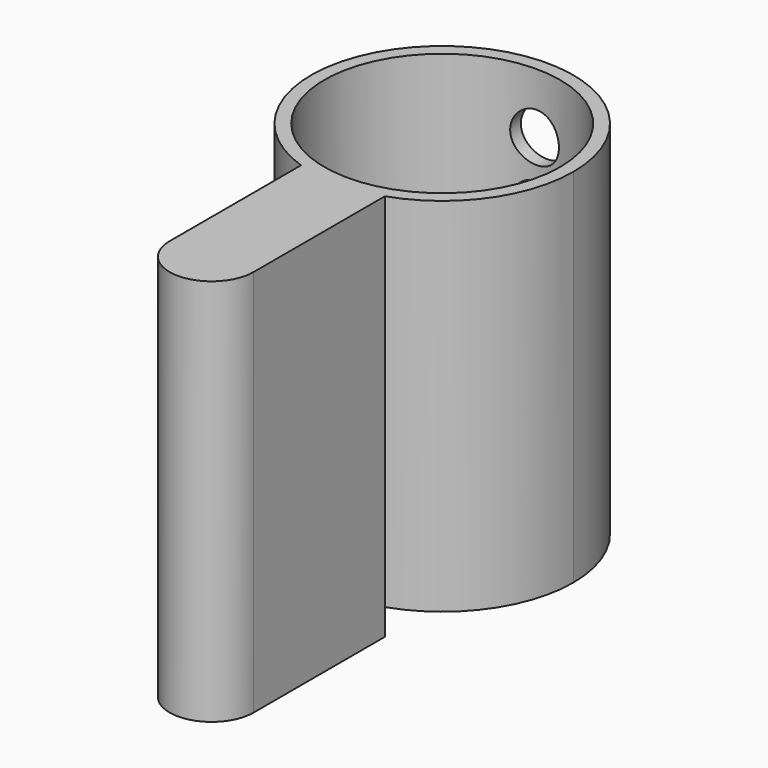
from build123d import *

# Parameters (mm, degrees)
F1_DEPTH = 17.526
F2_DEPTH = 1.27
F3_R     = 5.715
F4_DEPTH = 17.526
F6_R     = 1.1811
F7_DEPTH = 20.828


with BuildPart() as f1:
    # F0 (on Top) → F1 (new body)
    with BuildSketch(Plane.XY):
        with BuildLine():
            ThreePointArc((2.032, -6.016101), (5.158764, -3.702654), (6.35, 0))
            ThreePointArc((6.35, 0), (-3.702654, 5.158764), (-2.032, -6.016101))
            ThreePointArc((-2.032, -6.016101), (0, -6.35), (2.032, -6.016101))
        make_face()
        with BuildLine():
            ThreePointArc((2.032, -6.016101), (0, -6.35), (-2.032, -6.016101))
            Line((-2.032, -6.016101), (-2.032, -13.97))
            ThreePointArc((-2.032, -13.97), (0, -16.002), (2.032, -13.97))
            Line((2.032, -13.97), (2.032, -6.016101))
        make_face()
    extrude(amount=F1_DEPTH)

    # F0 (on Top) → F2 (join)
    with BuildSketch(Plane.XY):
        with BuildLine():
            ThreePointArc((2.032, -6.016101), (0, -6.35), (-2.032, -6.016101))
            Line((-2.032, -6.016101), (-2.032, -13.97))
            ThreePointArc((-2.032, -13.97), (0, -16.002), (2.032, -13.97))
            Line((2.032, -13.97), (2.032, -6.016101))
        make_face()
    extrude(amount=-F2_DEPTH)

    # F3 (on face) → F4 (cut, through all)
    with BuildSketch(Plane.XY.offset(17.526)):
        Circle(F3_R)
    extrude(amount=-F4_DEPTH, mode=Mode.SUBTRACT)

    # F6 (on offset) → F7 (cut)
    with BuildSketch(Plane.XZ.offset(-6.35)):
        with Locations((0, 2.413)):
            Circle(F6_R)
        with Locations((0, 5.461)):
            Circle(F6_R)
        with Locations((0, 8.509)):
            Circle(F6_R)
        with Locations((0, 11.557)):
            Circle(F6_R)
        with Locations((0, 14.605)):
            Circle(F6_R)
    extrude(amount=F7_DEPTH, mode=Mode.SUBTRACT)


solid = f1.part
